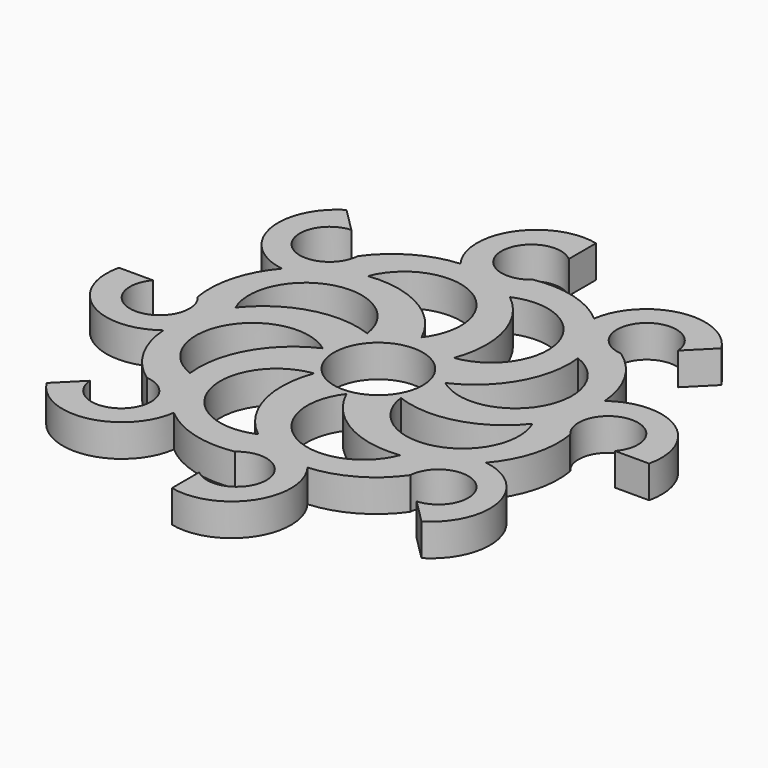
from build123d import *

# Parameters (mm, degrees)
F1_DEPTH = 4
F2_COUNT = 8
F4_R     = 5.5
F5_DEPTH = 4


with BuildPart() as f1:
    # F0 (on Top) → F1 (new body)
    with BuildSketch(Plane.XY):
        with BuildLine():
            Line((0, 22.28635), (0, 26.502684))
            ThreePointArc((0, 26.502684), (-9.016314, 19.375069), (0, 12.247453))
            ThreePointArc((0, 12.247453), (10.336376, 6.123727), (0, 0))
            Line((0, 0), (0, -6.289178))
            ThreePointArc((0, -6.289178), (13.747998, 5.231544), (0, 16.752267))
            ThreePointArc((0, 16.752267), (-6.104504, 19.519308), (0, 22.28635))
        make_face()
    extrude(amount=F1_DEPTH)


with BuildPart() as f2_1:
    # F2: instance of F1
    add(f1.part.rotate(Axis((0, -6.289178, 2), (0, 0, 1)), 1 * 360 / F2_COUNT))


with BuildPart() as f2_2:
    # F2: instance of F1
    add(f1.part.rotate(Axis((0, -6.289178, 2), (0, 0, 1)), 2 * 360 / F2_COUNT))


with BuildPart() as f2_3:
    # F2: instance of F1
    add(f1.part.rotate(Axis((0, -6.289178, 2), (0, 0, 1)), 3 * 360 / F2_COUNT))


with BuildPart() as f2_4:
    # F2: instance of F1
    add(f1.part.rotate(Axis((0, -6.289178, 2), (0, 0, 1)), 4 * 360 / F2_COUNT))


with BuildPart() as f2_5:
    # F2: instance of F1
    add(f1.part.rotate(Axis((0, -6.289178, 2), (0, 0, 1)), 5 * 360 / F2_COUNT))


with BuildPart() as f2_6:
    # F2: instance of F1
    add(f1.part.rotate(Axis((0, -6.289178, 2), (0, 0, 1)), 6 * 360 / F2_COUNT))


with BuildPart() as f2_7:
    # F2: instance of F1
    add(f1.part.rotate(Axis((0, -6.289178, 2), (0, 0, 1)), 7 * 360 / F2_COUNT))


with BuildPart() as f2_6_1:
    add(f2_6.part)

    # F3: union F2_7, F2_5, F2_2, F2_1, F2_4, F2_3, F1
    add(f2_7.part)
    add(f2_5.part)
    add(f2_2.part)
    add(f2_1.part)
    add(f2_4.part)
    add(f2_3.part)
    add(f1.part)

    # F4 (on face) → F5 (cut)
    with BuildSketch(Plane.XY.offset(4)):
        with Locations((0, -7.159515)):
            Circle(F4_R)
    extrude(amount=-F5_DEPTH, mode=Mode.SUBTRACT)


solid = f2_6_1.part
